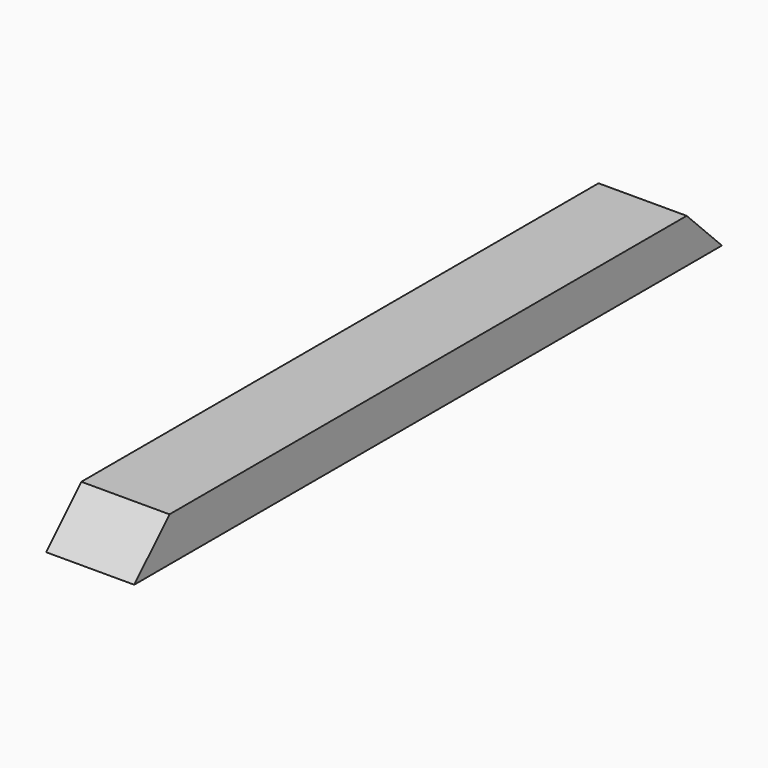
from build123d import *

# Parameters (mm, degrees)
F0_W          = 76.2
F0_H          = 38.1
F1_DEPTH      = 317.5
F1_DEPTH_BACK = 317.5
F3_DEPTH      = 76.2


with BuildPart() as f1:
    # F0 (on Front) → F1 (new body, two sides)
    with BuildSketch(Plane.XZ) as f1_sk:
        Rectangle(F0_W, F0_H)
    extrude(amount=F1_DEPTH)
    extrude(f1_sk.sketch, amount=-F1_DEPTH_BACK)

    # F2 (on face) → F3 (cut, through all)
    with BuildSketch(Plane(origin=(-38.1, 0, 0), x_dir=(0, -1, 0), z_dir=(-1, 0, 0))):
        Polygon((-279.4, 19.05), (-317.5, 19.05), (-317.5, -19.05), align=None)
        Polygon((279.4, 19.05), (317.5, -19.05), (317.5, 19.05), align=None)
    extrude(amount=-F3_DEPTH, mode=Mode.SUBTRACT)


solid = f1.part
